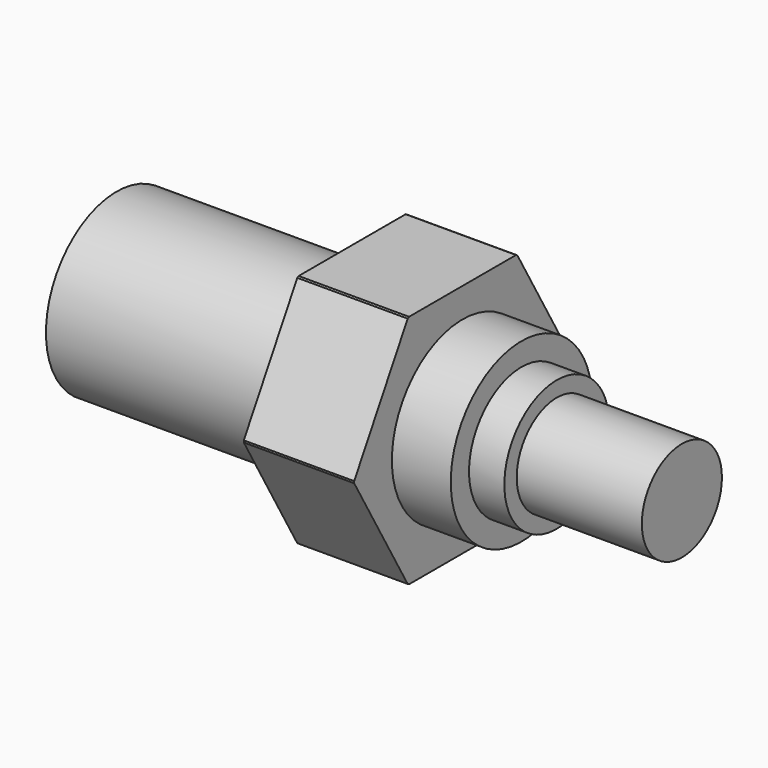
from build123d import *

# Parameters (mm, degrees)
F3_START = 13.9
F3_DEPTH = 38.9


with BuildPart() as f1:
    # F0 (on Top) → F1 (revolve)
    with BuildSketch(Plane.XY):
        Polygon((-9.9245372606, 3), (-9.9245372606, 0), (9.2754627394, 0), (9.2754627394, 1.7), (5.0254627394, 1.7), (5.0254627394, 2.225), (3.8254627394, 2.225), (3.8254627394, 3), (1.8254627394, 3), (1.8254627394, 4.6), (-1.9245372606, 4.6), (-1.9245372606, 3), align=None)
    revolve(axis=Axis((-0.3245372606, 0, 0), (1, 0, 0)))

    # F2 (on face) → F3 (intersect)
    with BuildSketch(Plane(origin=(-1.9245372606, 0, 0), x_dir=(0, -1, 0), z_dir=(-1, 0, 0)).offset(F3_START)):
        Polygon((2.3094010768, 4), (-2.3094010768, 4), (-4.6188021535, 0), (-2.3094010768, -4), (2.3094010768, -4), (4.6188021535, 0), align=None)
    extrude(amount=-F3_DEPTH, mode=Mode.INTERSECT)


solid = f1.part
